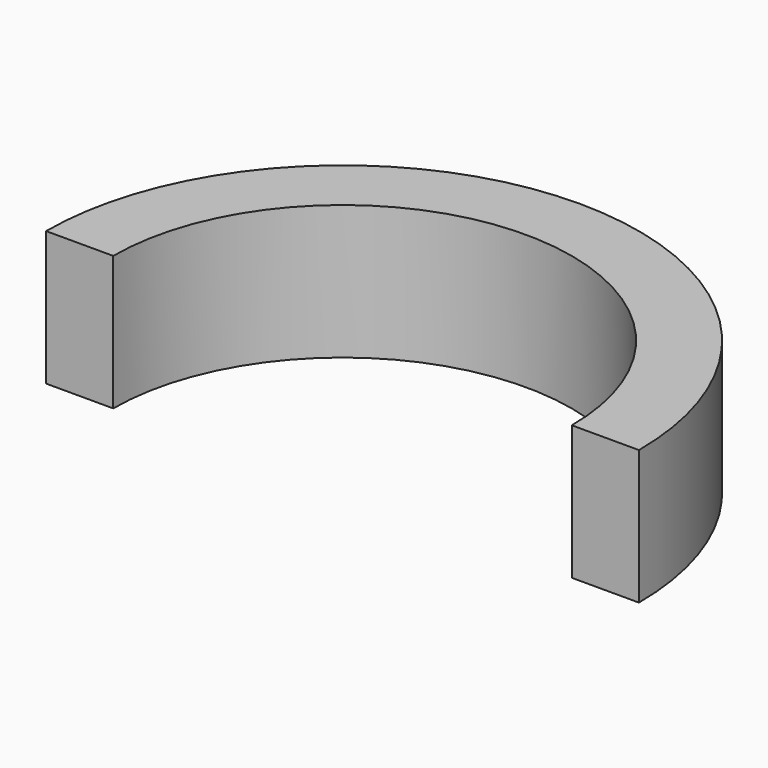
from build123d import *

# Parameters (mm, degrees)
PAD_DEPTH = 5


with BuildPart() as part:
    # Sketch → Pad (new body, symmetric)
    with BuildSketch(Plane.XY):
        with BuildLine():
            ThreePointArc((17.075, 0), (0, 17.075), (-17.075, 0))
            Line((-22.075, 0), (-17.075, 0))
            ThreePointArc((22.075, 0), (0, 22.075), (-22.075, 0))
            Line((17.075, 0), (22.075, 0))
        make_face()
    extrude(amount=PAD_DEPTH, both=True)


solid = part.part
